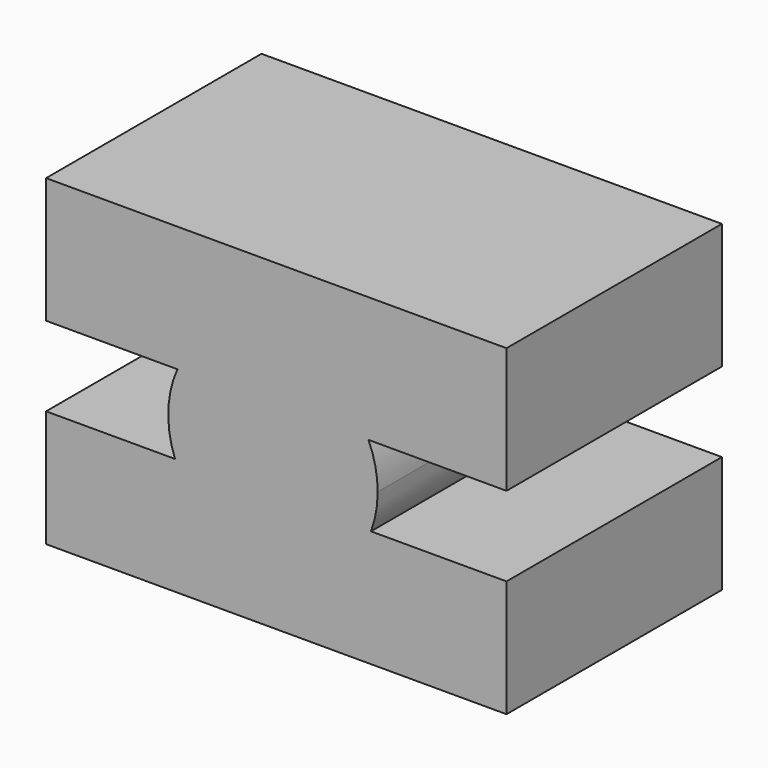
from build123d import *

# Parameters (mm, degrees)
F1_DEPTH = 53.594


with BuildPart() as f1:
    # F0 (on Front) → F1 (new body)
    with BuildSketch(Plane.XZ):
        with BuildLine():
            Line((-19.50657, -7.33976), (-45.16267, -7.33976))
            Line((-45.16267, -7.33976), (-45.16267, -30.615397))
            Line((-45.16267, -30.615397), (46.485152, -30.615397))
            Line((46.485152, -30.615397), (46.485152, -7.33976))
            Line((46.485152, -7.33976), (19.50657, -7.33976))
            ThreePointArc((19.50657, -7.33976), (0, -20.841746), (-19.50657, -7.33976))
        make_face()
        with BuildLine():
            Line((46.485152, 33.524852), (-45.16267, 33.524852))
            Line((-45.16267, 33.524852), (-45.16267, 8.529992))
            Line((-45.16267, 8.529992), (-19.016246, 8.529992))
            ThreePointArc((-19.016246, 8.529992), (0, 20.841746), (19.016246, 8.529992))
            Line((19.016246, 8.529992), (46.485152, 8.529992))
            Line((46.485152, 8.529992), (46.485152, 33.524852))
        make_face()
        with BuildLine():
            ThreePointArc((19.016246, 8.529992), (0, 20.841746), (-19.016246, 8.529992))
            ThreePointArc((-19.016246, 8.529992), (-20.831805, 0.643636), (-19.50657, -7.33976))
            ThreePointArc((-19.50657, -7.33976), (0, -20.841746), (19.50657, -7.33976))
            ThreePointArc((19.50657, -7.33976), (20.505235, -3.730106), (20.841746, 0))
            ThreePointArc((20.841746, 0), (20.380261, 4.361571), (19.016246, 8.529992))
        make_face()
    extrude(amount=F1_DEPTH)


solid = f1.part
